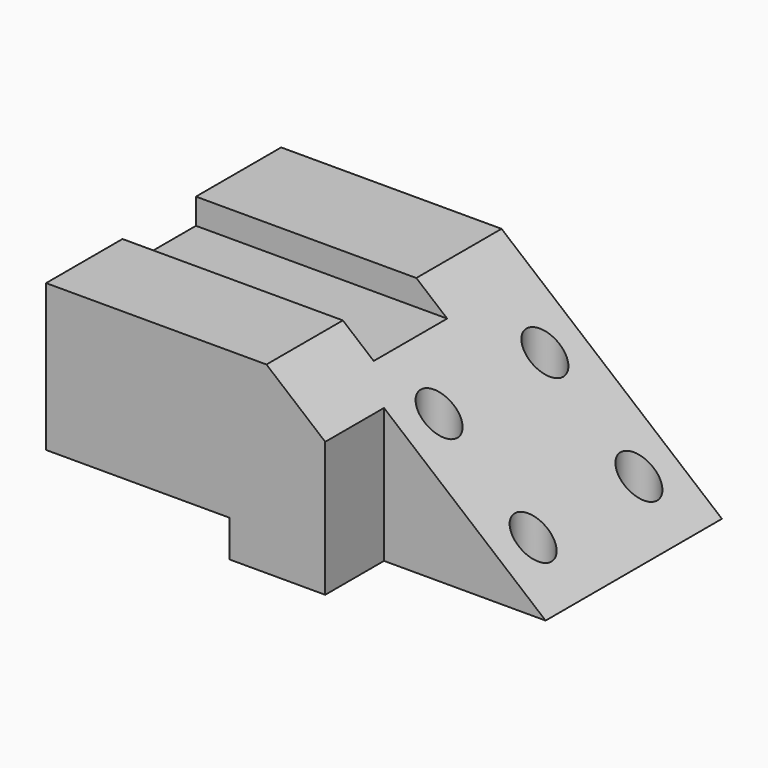
from build123d import *

# Parameters (mm, degrees)
F1_DEPTH = 152.4
F2_W     = 63.5
F2_H     = 12.7
F3_DEPTH = 101.601
F2_W_2   = 55.88
F2_H_2   = 58.42
F4_DEPTH = 25.4
F6_DEPTH = 101.601
F7_R     = 6.35
F8_DEPTH = 63.501


with BuildPart() as f1:
    # F0 (on Right) → F1 (new body)
    with BuildSketch(Plane.YZ):
        Polygon((-17.78, 31.75), (-50.8, 31.75), (-50.8, -31.75), (50.8, -31.75), (50.8, 31.75), (13.97, 31.75), (13.97, 22.86), (-17.78, 22.86), align=None)
    extrude(amount=F1_DEPTH)

    # F2 (on face) → F3 (cut, through all)
    with BuildSketch(Plane.XZ.offset(50.8)):
        with Locations((31.75, -25.4)):
            Rectangle(F2_W, F2_H)
    extrude(amount=-F3_DEPTH, mode=Mode.SUBTRACT)

    # F2 (on face) → F4 (cut)
    with BuildSketch(Plane.XZ.offset(50.8)):
        with Locations((124.46, -2.54)):
            Rectangle(F2_W_2, F2_H_2)
    extrude(amount=-F4_DEPTH, mode=Mode.SUBTRACT)

    # F5 (on face) → F6 (cut, through all)
    with BuildSketch(Plane.XZ.offset(50.8)):
        Polygon((152.4, 26.67), (152.4, 31.75), (76.2, 31.75), (152.4, -31.75), align=None)
    extrude(amount=-F6_DEPTH, mode=Mode.SUBTRACT)

    # F7 (on face) → F8 (cut, through all)
    with BuildSketch(Plane(origin=(0, 0, -31.75), x_dir=(1, 0, 0), z_dir=(0, 0, -1))):
        with BuildLine():
            ThreePointArc((100.425931, 15.782081), (100.093425, 4.725474), (109.728, 10.16))
            ThreePointArc((109.728, 10.16), (108.812526, 13.444575), (106.330069, 15.782081))
            Line((106.330069, 15.782081), (100.425931, 15.782081))
        make_face()
        with BuildLine():
            ThreePointArc((138.842069, 15.782081), (135.89, 16.51), (132.937931, 15.782081))
            Line((132.937931, 15.782081), (138.842069, 15.782081))
        make_face()
        with BuildLine():
            Line((138.842069, 15.782081), (132.937931, 15.782081))
            ThreePointArc((132.937931, 15.782081), (132.605425, 4.725474), (142.24, 10.16))
            ThreePointArc((142.24, 10.16), (141.324526, 13.444575), (138.842069, 15.782081))
        make_face()
        with BuildLine():
            Line((100.425931, 15.782081), (106.330069, 15.782081))
            ThreePointArc((106.330069, 15.782081), (103.378, 16.51), (100.425931, 15.782081))
        make_face()
        with Locations((135.89, -35.56)):
            Circle(F7_R)
        with Locations((103.378, -35.56)):
            Circle(F7_R)
    extrude(amount=-F8_DEPTH, mode=Mode.SUBTRACT)


solid = f1.part
